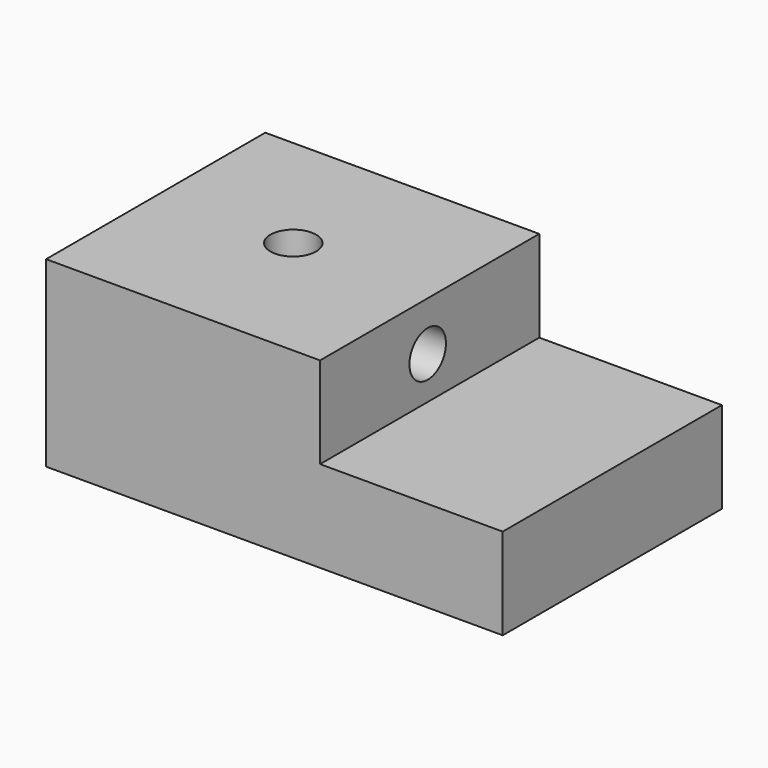
from build123d import *

# Parameters (mm, degrees)
F1_DEPTH = 76.2
F3_D     = 12.7
F5_D     = 12.7


with BuildPart() as f1:
    # F0 (on Front) → F1 (new body)
    with BuildSketch(Plane.XZ):
        Polygon((0, 50.8), (0, 0), (127, 0), (127, 25.4), (76.2, 25.4), (76.2, 50.8), align=None)
    extrude(amount=F1_DEPTH)

    # F3 (through all)
    with Locations(Plane.YZ.offset(76.2)):
        with Locations((-38.78307, 37.189245)):
            Hole(F3_D / 2)

    # F5 (through all)
    with Locations(Plane.XY.offset(50.8)):
        with Locations((37.188999, -36.756281)):
            Hole(F5_D / 2)


solid = f1.part
